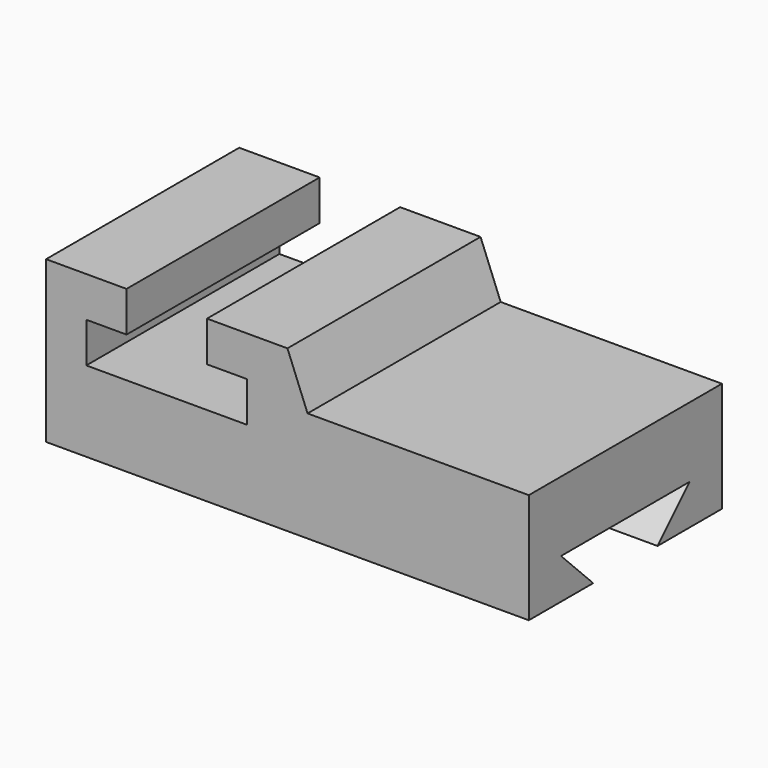
from build123d import *

# Parameters (mm, degrees)
F1_DEPTH = 76.2
F3_DEPTH = 203.2


with BuildPart() as f1:
    # F0 (on Front) → F1 (new body)
    with BuildSketch(Plane.XZ):
        Polygon((0, 50.8), (0, 0), (152.4, 0), (152.4, 34.773853), (82.55, 34.773853), (76.2, 50.8), (50.8, 50.8), (50.8, 38.1), (63.5, 38.1), (63.5, 25.4), (12.7, 25.4), (12.7, 38.1), (25.4, 38.1), (25.4, 50.8), align=None)
    extrude(amount=F1_DEPTH)

    # F2 (on face) → F3 (cut)
    with BuildSketch(Plane.YZ.offset(152.4)):
        Polygon((-63.5, 12.7), (-50.8, 0), (-38.1, 0), (-25.4, 0), (-12.7, 12.7), (-38.1, 12.7), align=None)
    extrude(amount=-F3_DEPTH, mode=Mode.SUBTRACT)


solid = f1.part
